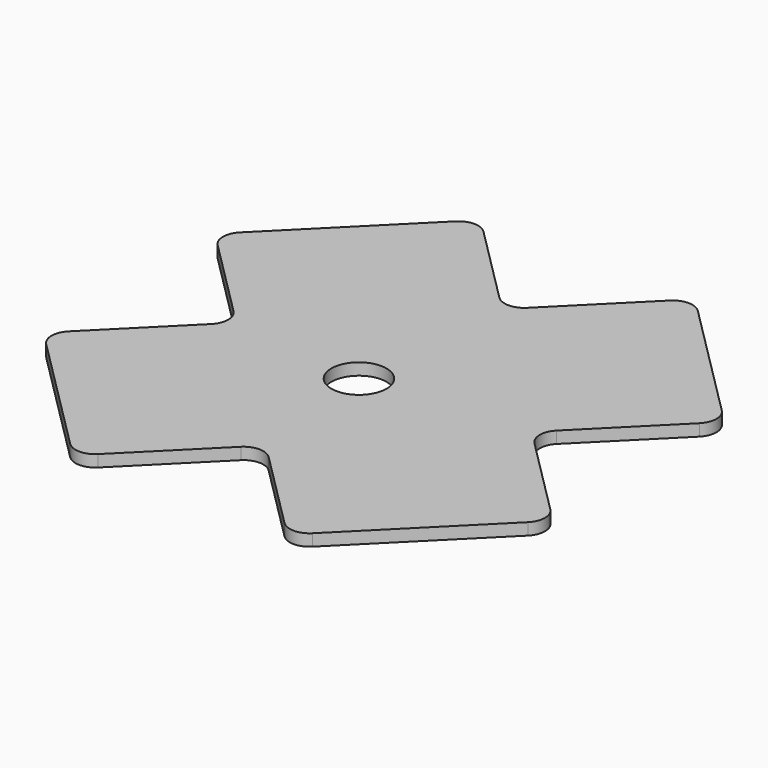
from build123d import *

# Parameters (mm, degrees)
F0_R     = 7
F1_DEPTH = 3


with BuildPart() as f1:
    # F0 (on Top) → F1 (new body)
    with BuildSketch(Plane.XY):
        with BuildLine():
            ThreePointArc((44.571068, 0), (43.106602, 3.535534), (44.571068, 7.071068))
            Line((44.571068, 7.071068), (64.711941, 27.211941))
            ThreePointArc((64.711941, 27.211941), (66.176407, 30.747475), (64.711941, 34.283009))
            Line((64.711941, 34.283009), (34.283009, 64.711941))
            ThreePointArc((34.283009, 64.711941), (30.747475, 66.176407), (27.211941, 64.711941))
            Line((27.211941, 64.711941), (7.071068, 44.571068))
            ThreePointArc((7.071068, 44.571068), (3.535534, 43.106602), (0, 44.571068))
            Line((0, 44.571068), (-20.140873, 64.711941))
            ThreePointArc((-20.140873, 64.711941), (-23.676407, 66.176407), (-27.211941, 64.711941))
            Line((-27.211941, 64.711941), (-57.640873, 34.283009))
            ThreePointArc((-57.640873, 34.283009), (-59.105339, 30.747475), (-57.640873, 27.211941))
            Line((-57.640873, 27.211941), (-37.5, 7.071068))
            ThreePointArc((-37.5, 7.071068), (-36.035534, 3.535534), (-37.5, 0))
            Line((-37.5, 0), (-57.640873, -20.140873))
            ThreePointArc((-57.640873, -20.140873), (-59.105339, -23.676407), (-57.640873, -27.211941))
            Line((-57.640873, -27.211941), (-27.211941, -57.640873))
            ThreePointArc((-27.211941, -57.640873), (-23.676407, -59.105339), (-20.140873, -57.640873))
            Line((-20.140873, -57.640873), (0, -37.5))
            ThreePointArc((0, -37.5), (3.535534, -36.035534), (7.071068, -37.5))
            Line((7.071068, -37.5), (27.211941, -57.640873))
            ThreePointArc((27.211941, -57.640873), (30.747475, -59.105339), (34.283009, -57.640873))
            Line((34.283009, -57.640873), (64.711941, -27.211941))
            ThreePointArc((64.711941, -27.211941), (66.176407, -23.676407), (64.711941, -20.140873))
            Line((64.711941, -20.140873), (44.571068, 0))
        make_face()
        Circle(F0_R, mode=Mode.SUBTRACT)
    extrude(amount=F1_DEPTH)


solid = f1.part
